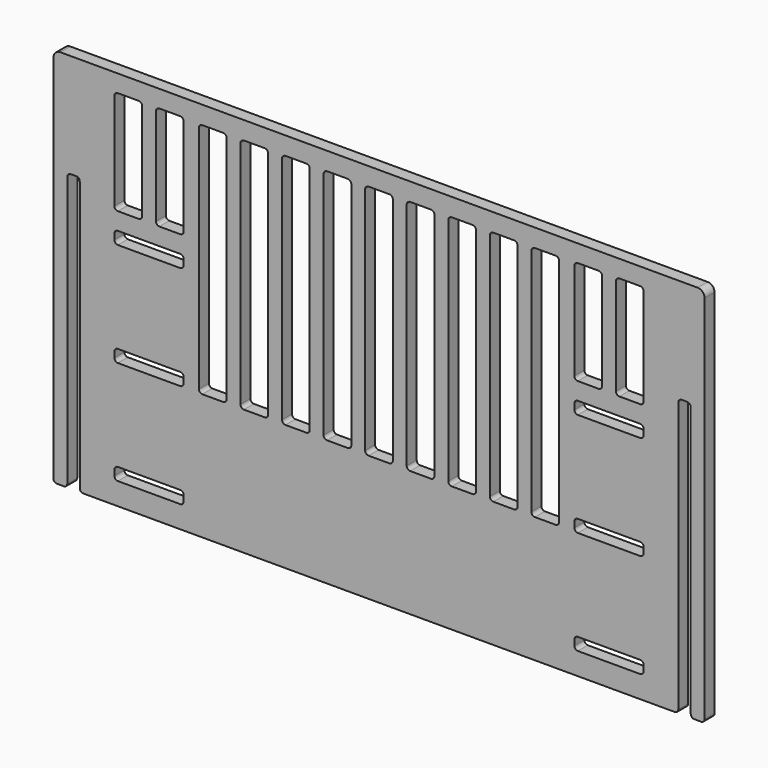
from build123d import *

# Parameters (mm, degrees)
F1_DEPTH  = 18
F2_W      = 100
F2_H      = 18
F3_DEPTH  = 25
F4_W      = 100
F4_H      = 18
F5_DEPTH  = 25
F6_R      = 10
F7_R      = 5
F8_R      = 5
F9_R      = 5
F10_R     = 5
F11_R     = 5
F12_R     = 5
F13_R     = 5
F14_R     = 5
F16_DEPTH = 25
F17_DEPTH = 25
F19_DEPTH = 25


with BuildPart() as f1:
    # F0 (on Front) → F1 (new body)
    with BuildSketch(Plane.XZ):
        Polygon((0, 550), (0, 0), (20, 0), (20, 400), (38, 400), (38, 0), (902, 0), (902, 400), (920, 400), (920, 0), (940, 0), (940, 550), align=None)
    extrude(amount=F1_DEPTH)

    # F2 (on face) → F3 (cut)
    with BuildSketch(Plane.XZ.offset(18)):
        with Locations((138, 341)):
            Rectangle(F2_W, F2_H)
    extrude(amount=-F3_DEPTH, mode=Mode.SUBTRACT)

    # F4 (on face) → F5 (cut)
    with BuildSketch(Plane.XZ.offset(18)):
        with Locations((138, 191)):
            Rectangle(F4_W, F4_H)
        with Locations((138, 41)):
            Rectangle(F4_W, F4_H)
        with Locations((802, 341)):
            Rectangle(F4_W, F4_H)
        with Locations((802, 191)):
            Rectangle(F4_W, F4_H)
        with Locations((802, 41)):
            Rectangle(F4_W, F4_H)
    extrude(amount=-F5_DEPTH, mode=Mode.SUBTRACT)

    # F6
    f6_edges = [f1.edges().sort_by_distance(p)[0] for p in [
        (0, -9, 550),
        (940, -9, 550),
    ]]
    fillet(f6_edges, radius=F6_R)

    # F7
    f7_edges = [f1.edges().sort_by_distance(p)[0] for p in [
        (940, -9, 0),
        (920, -9, 0),
        (902, -9, 0),
        (902, -9, 400),
        (920, -9, 400),
    ]]
    fillet(f7_edges, radius=F7_R)

    # F8
    f8_edges = [f1.edges().sort_by_distance(p)[0] for p in [
        (852, -9, 50),
        (852, -9, 32),
        (752, -9, 32),
        (752, -9, 50),
    ]]
    fillet(f8_edges, radius=F8_R)

    # F9
    f9_edges = [f1.edges().sort_by_distance(p)[0] for p in [
        (752, -9, 200),
        (752, -9, 182),
        (852, -9, 182),
        (852, -9, 200),
    ]]
    fillet(f9_edges, radius=F9_R)

    # F10
    f10_edges = [f1.edges().sort_by_distance(p)[0] for p in [
        (852, -9, 350),
        (852, -9, 332),
        (752, -9, 332),
        (752, -9, 350),
    ]]
    fillet(f10_edges, radius=F10_R)

    # F11
    f11_edges = [f1.edges().sort_by_distance(p)[0] for p in [
        (0, -9, 0),
        (20, -9, 0),
        (38, -9, 0),
        (38, -9, 400),
        (20, -9, 400),
    ]]
    fillet(f11_edges, radius=F11_R)

    # F12
    f12_edges = [f1.edges().sort_by_distance(p)[0] for p in [
        (88, -9, 350),
        (88, -9, 332),
        (188, -9, 350),
        (188, -9, 332),
    ]]
    fillet(f12_edges, radius=F12_R)

    # F13
    f13_edges = [f1.edges().sort_by_distance(p)[0] for p in [
        (188, -9, 182),
        (188, -9, 200),
        (88, -9, 200),
        (88, -9, 182),
    ]]
    fillet(f13_edges, radius=F13_R)

    # F14
    f14_edges = [f1.edges().sort_by_distance(p)[0] for p in [
        (88, -9, 50),
        (188, -9, 50),
        (188, -9, 32),
        (88, -9, 32),
    ]]
    fillet(f14_edges, radius=F14_R)

    # F15 (on face) → F16 (cut)
    with BuildSketch(Plane.XZ.offset(18)):
        with BuildLine():
            Line((123, 525), (93, 525))
            ThreePointArc((93, 525), (89.464466, 523.535534), (88, 520))
            Line((88, 520), (88, 380))
            ThreePointArc((88, 380), (89.464466, 376.464466), (93, 375))
            Line((93, 375), (123, 375))
            ThreePointArc((123, 375), (126.535534, 376.464466), (128, 380))
            Line((128, 380), (128, 520))
            ThreePointArc((128, 520), (126.535534, 523.535534), (123, 525))
        make_face()
        with BuildLine():
            ThreePointArc((153, 525), (149.464466, 523.535534), (148, 520))
            Line((148, 520), (148, 380))
            ThreePointArc((148, 380), (149.464466, 376.464466), (153, 375))
            Line((153, 375), (183, 375))
            ThreePointArc((183, 375), (186.535534, 376.464466), (188, 380))
            Line((188, 380), (188, 520))
            ThreePointArc((188, 520), (186.535534, 523.535534), (183, 525))
            Line((183, 525), (153, 525))
        make_face()
    extrude(amount=-F16_DEPTH, mode=Mode.SUBTRACT)

    # F15 (on face) → F17 (cut)
    with BuildSketch(Plane.XZ.offset(18)):
        with BuildLine():
            Line((123, 525), (93, 525))
            ThreePointArc((93, 525), (89.464466, 523.535534), (88, 520))
            Line((88, 520), (88, 380))
            ThreePointArc((88, 380), (89.464466, 376.464466), (93, 375))
            Line((93, 375), (123, 375))
            ThreePointArc((123, 375), (126.535534, 376.464466), (128, 380))
            Line((128, 380), (128, 520))
            ThreePointArc((128, 520), (126.535534, 523.535534), (123, 525))
        make_face()
        with BuildLine():
            ThreePointArc((153, 525), (149.464466, 523.535534), (148, 520))
            Line((148, 520), (148, 380))
            ThreePointArc((148, 380), (149.464466, 376.464466), (153, 375))
            Line((153, 375), (183, 375))
            ThreePointArc((183, 375), (186.535534, 376.464466), (188, 380))
            Line((188, 380), (188, 520))
            ThreePointArc((188, 520), (186.535534, 523.535534), (183, 525))
            Line((183, 525), (153, 525))
        make_face()
        with BuildLine():
            ThreePointArc((817, 525), (813.464466, 523.535534), (812, 520))
            Line((812, 520), (812, 380))
            ThreePointArc((812, 380), (813.464466, 376.464466), (817, 375))
            Line((817, 375), (847, 375))
            ThreePointArc((847, 375), (850.535534, 376.464466), (852, 380))
            Line((852, 380), (852, 520))
            ThreePointArc((852, 520), (850.535534, 523.535534), (847, 525))
            Line((847, 525), (817, 525))
        make_face()
        with BuildLine():
            Line((792, 380), (792, 520))
            ThreePointArc((792, 520), (790.535534, 523.535534), (787, 525))
            Line((787, 525), (757, 525))
            ThreePointArc((757, 525), (753.464466, 523.535534), (752, 520))
            Line((752, 520), (752, 380))
            ThreePointArc((752, 380), (753.464466, 376.464466), (757, 375))
            Line((757, 375), (787, 375))
            ThreePointArc((787, 375), (790.535534, 376.464466), (792, 380))
        make_face()
    extrude(amount=-F17_DEPTH, mode=Mode.SUBTRACT)

    # F18 (on face) → F19 (cut)
    with BuildSketch(Plane.XZ.offset(18)):
        with BuildLine():
            Line((245, 524), (215, 524))
            ThreePointArc((215, 524), (211.464466, 522.535534), (210, 519))
            Line((210, 519), (210, 187))
            ThreePointArc((210, 187), (211.464466, 183.464466), (215, 182))
            Line((215, 182), (245, 182))
            ThreePointArc((245, 182), (248.535534, 183.464466), (250, 187))
            Line((250, 187), (250, 519))
            ThreePointArc((250, 519), (248.535534, 522.535534), (245, 524))
        make_face()
        with BuildLine():
            Line((425, 524), (395, 524))
            ThreePointArc((395, 524), (391.464466, 522.535534), (390, 519))
            Line((390, 519), (390, 187))
            ThreePointArc((390, 187), (391.464466, 183.464466), (395, 182))
            Line((395, 182), (425, 182))
            ThreePointArc((425, 182), (428.535534, 183.464466), (430, 187))
            Line((430, 187), (430, 519))
            ThreePointArc((430, 519), (428.535534, 522.535534), (425, 524))
        make_face()
        with BuildLine():
            Line((725, 524), (695, 524))
            ThreePointArc((695, 524), (691.464466, 522.535534), (690, 519))
            Line((690, 519), (690, 187))
            ThreePointArc((690, 187), (691.464466, 183.464466), (695, 182))
            Line((695, 182), (725, 182))
            ThreePointArc((725, 182), (728.535534, 183.464466), (730, 187))
            Line((730, 187), (730, 519))
            ThreePointArc((730, 519), (728.535534, 522.535534), (725, 524))
        make_face()
        with BuildLine():
            Line((305, 524), (275, 524))
            ThreePointArc((275, 524), (271.464466, 522.535534), (270, 519))
            Line((270, 519), (270, 187))
            ThreePointArc((270, 187), (271.464466, 183.464466), (275, 182))
            Line((275, 182), (305, 182))
            ThreePointArc((305, 182), (308.535534, 183.464466), (310, 187))
            Line((310, 187), (310, 519))
            ThreePointArc((310, 519), (308.535534, 522.535534), (305, 524))
        make_face()
        with BuildLine():
            Line((365, 524), (335, 524))
            ThreePointArc((335, 524), (331.464466, 522.535534), (330, 519))
            Line((330, 519), (330, 187))
            ThreePointArc((330, 187), (331.464466, 183.464466), (335, 182))
            Line((335, 182), (365, 182))
            ThreePointArc((365, 182), (368.535534, 183.464466), (370, 187))
            Line((370, 187), (370, 519))
            ThreePointArc((370, 519), (368.535534, 522.535534), (365, 524))
        make_face()
        with BuildLine():
            Line((485, 524), (455, 524))
            ThreePointArc((455, 524), (451.464466, 522.535534), (450, 519))
            Line((450, 519), (450, 187))
            ThreePointArc((450, 187), (451.464466, 183.464466), (455, 182))
            Line((455, 182), (485, 182))
            ThreePointArc((485, 182), (488.535534, 183.464466), (490, 187))
            Line((490, 187), (490, 519))
            ThreePointArc((490, 519), (488.535534, 522.535534), (485, 524))
        make_face()
        with BuildLine():
            Line((545, 524), (515, 524))
            ThreePointArc((515, 524), (511.464466, 522.535534), (510, 519))
            Line((510, 519), (510, 187))
            ThreePointArc((510, 187), (511.464466, 183.464466), (515, 182))
            Line((515, 182), (545, 182))
            ThreePointArc((545, 182), (548.535534, 183.464466), (550, 187))
            Line((550, 187), (550, 519))
            ThreePointArc((550, 519), (548.535534, 522.535534), (545, 524))
        make_face()
        with BuildLine():
            Line((605, 524), (575, 524))
            ThreePointArc((575, 524), (571.464466, 522.535534), (570, 519))
            Line((570, 519), (570, 187))
            ThreePointArc((570, 187), (571.464466, 183.464466), (575, 182))
            Line((575, 182), (605, 182))
            ThreePointArc((605, 182), (608.535534, 183.464466), (610, 187))
            Line((610, 187), (610, 519))
            ThreePointArc((610, 519), (608.535534, 522.535534), (605, 524))
        make_face()
        with BuildLine():
            Line((665, 524), (635, 524))
            ThreePointArc((635, 524), (631.464466, 522.535534), (630, 519))
            Line((630, 519), (630, 187))
            ThreePointArc((630, 187), (631.464466, 183.464466), (635, 182))
            Line((635, 182), (665, 182))
            ThreePointArc((665, 182), (668.535534, 183.464466), (670, 187))
            Line((670, 187), (670, 519))
            ThreePointArc((670, 519), (668.535534, 522.535534), (665, 524))
        make_face()
    extrude(amount=-F19_DEPTH, mode=Mode.SUBTRACT)


solid = f1.part
